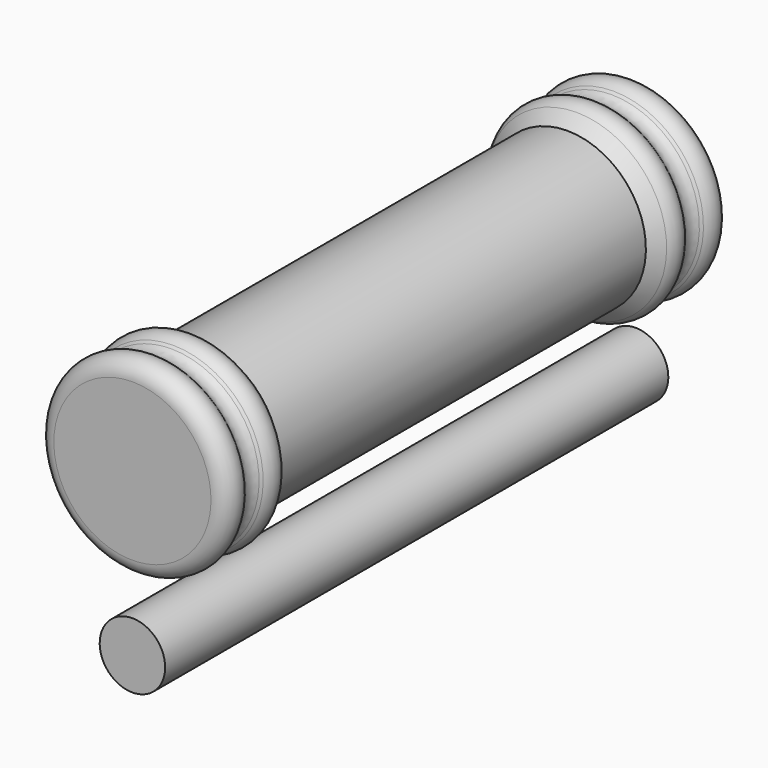
from build123d import *

# Parameters (mm, degrees)
F2_R = 2
F0_W = 96.058874
F0_H = 5


with BuildPart() as f1:
    # F0 (on Right) → F1 (revolve)
    with BuildSketch(Plane.YZ):
        with BuildLine():
            Line((-48.029437, 12), (-48.029437, 0))
            Line((-48.029437, 0), (48.029437, 0))
            Line((48.029437, 0), (48.029437, 12))
            ThreePointArc((48.029437, 12), (46.495232, 14.296101), (43.786797, 13.75736))
            Line((43.786797, 13.75736), (42.029437, 12))
            Line((42.029437, 12), (40.272078, 13.75736))
            ThreePointArc((40.272078, 13.75736), (38.514718, 14.485282), (36.757359, 13.75736))
            Line((36.757359, 13.75736), (35, 12))
            Line((35, 12), (-35, 12))
            Line((-35, 12), (-36.757359, 13.75736))
            ThreePointArc((-36.757359, 13.75736), (-38.514718, 14.485282), (-40.272078, 13.75736))
            Line((-40.272078, 13.75736), (-42.029437, 12))
            Line((-42.029437, 12), (-43.786797, 13.75736))
            ThreePointArc((-43.786797, 13.75736), (-46.495232, 14.296101), (-48.029437, 12))
        make_face()
    revolve(axis=Axis((0, 0, 0), (0, 1, 0)))

    # F2
    f2_edges = [f1.edges().sort_by_distance(p)[0] for p in [
        (0, -42.029437, -12),
        (0, 42.029437, -12),
    ]]
    fillet(f2_edges, radius=F2_R)


with BuildPart() as f3:
    # F0 (on Right) → F3 (revolve)
    with BuildSketch(Plane.YZ):
        with Locations((0, -22.288572)):
            Rectangle(F0_W, F0_H)
    revolve(axis=Axis((0, 0, -24.788572), (0, 1, 0)))


solid = Compound([f1.part, f3.part])
